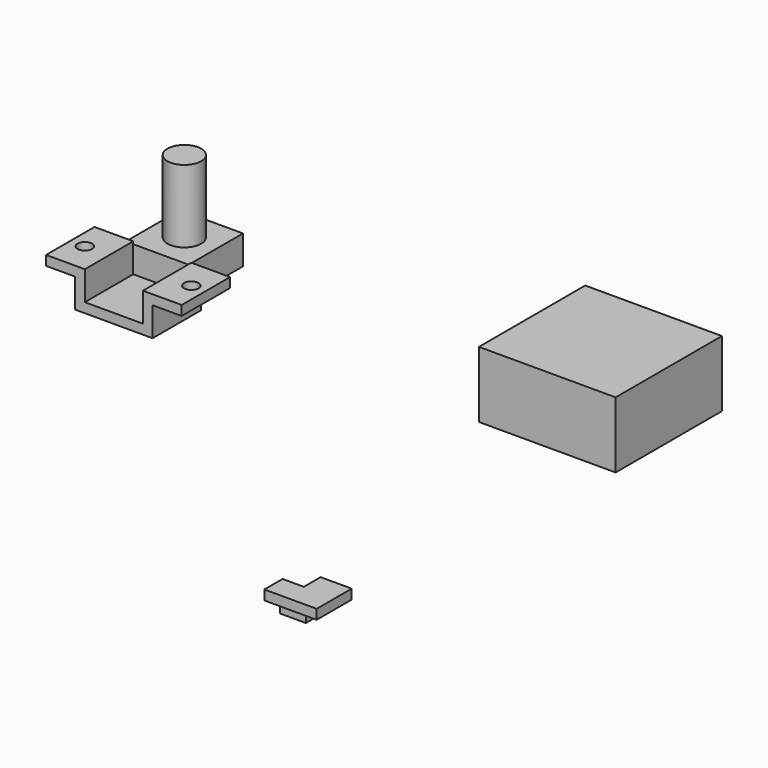
from build123d import *

# Parameters (mm, degrees)
F1_DEPTH  = 12.5
F3_R      = 1.5
F4_DEPTH  = 2
F5_W      = 13
F5_H      = 14
F6_DEPTH  = 6
F7_R      = 3.5
F8_DEPTH  = 15
F9_W      = 5.374122411
F9_H      = 5.0102584064
F10_DEPTH = 1
F12_DEPTH = 5
F15_DEPTH = 2
F16_W     = 28.2346028835
F16_H     = 27.4385567755
F17_DEPTH = 13.66082


with BuildPart() as f1:
    # F0 (on Front) → F1 (new body)
    with BuildSketch(Plane.XZ):
        Polygon((-19.6080225684, 15.8464666727), (-31.6080225684, 15.8464666727), (-31.6080225684, 21.8464666727), (-39.6080225684, 21.8464666727), (-39.6080225684, 19.8464666727), (-33.6080225684, 19.8464666727), (-33.6080225684, 13.8464666727), (-17.6080225684, 13.8464666727), (-17.6080225684, 19.8464666727), (-11.6080225684, 19.8464666727), (-11.6080225684, 21.8464666727), (-19.6080225684, 21.8464666727), align=None)
    extrude(amount=F1_DEPTH)

    # F3 (on face) → F4 (cut)
    with BuildSketch(Plane.XY.offset(21.8464666727)):
        with Locations((-36.6080225684, -6.25)):
            Circle(F3_R)
        with Locations((-14.6080225684, -6.25)):
            Circle(F3_R)
    extrude(amount=-F4_DEPTH, mode=Mode.SUBTRACT)


with BuildPart() as f6:
    # F5 (on Top) → F6 (new body)
    with BuildSketch(Plane.XY):
        with Locations((-45.0216927001, 29.9660498276)):
            Rectangle(F5_W, F5_H)
    extrude(amount=F6_DEPTH)

    # F7 (on face) → F8 (join)
    with BuildSketch(Plane.XY.offset(6)):
        with Locations((-45.0216927001, 29.9660498276)):
            Circle(F7_R)
    extrude(amount=F8_DEPTH)


with BuildPart() as f10:
    # F9 (on Top) → F10 (new body)
    with BuildSketch(Plane.XY):
        with Locations((44.5387493819, -51.4578428119)):
            Rectangle(F9_W, F9_H)
    extrude(amount=F10_DEPTH)

    # F11 (on face) → F12 (join)
    with BuildSketch(Plane.XY.offset(1)):
        Polygon((47.2258105874, -48.9527136087), (46.2449193001, -48.9527136087), (46.2449193001, -53.2760694623), (41.8516881764, -53.2760694623), (41.8516881764, -53.9629720151), (47.2258105874, -53.9629720151), align=None)
    extrude(amount=F12_DEPTH)

    # F14 (on offset) → F15 (join)
    with BuildSketch(Plane.XY.offset(4)):
        Polygon((52.6665262878, -48.9527136087), (47.2258105874, -48.9527136087), (47.2258105874, -53.9629720151), (41.8516881764, -53.9629720151), (41.8516881764, -57.9841956496), (52.6665262878, -57.9841956496), align=None)
    extrude(amount=F15_DEPTH)


with BuildPart() as f17:
    # F16 (on Top) → F17 (new body)
    with BuildSketch(Plane.XY):
        with Locations((39.2521424219, 32.028012909)):
            Rectangle(F16_W, F16_H)
    extrude(amount=F17_DEPTH)


solid = Compound([f1.part, f6.part, f10.part, f17.part])
